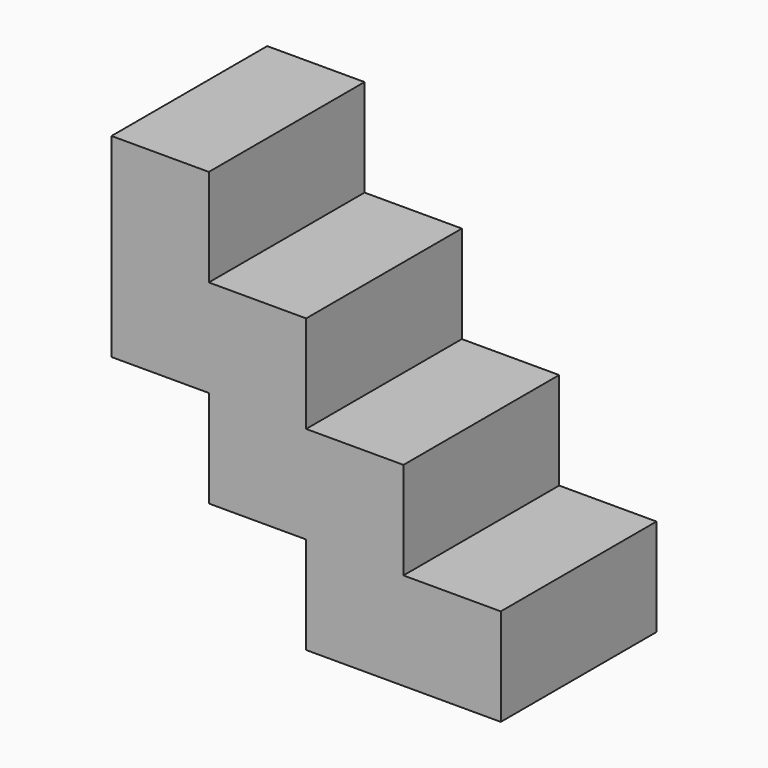
from build123d import *

# Parameters (mm, degrees)
F0_W      = 152.4
F0_H      = 152.4
F1_DEPTH  = 152.4
F2_W      = 76.2
F2_H      = 76.2
F3_DEPTH  = 271.78
F4_W      = 152.4
F4_H      = 76.2
F5_DEPTH  = 76.2
F6_W      = 76.2
F6_H      = 152.4
F7_DEPTH  = 76.2
F8_W      = 76.2
F8_H      = 152.4
F9_DEPTH  = 76.2
F10_W     = 152.4
F10_H     = 76.2
F11_DEPTH = 76.2


with BuildPart() as f1:
    # F0 (on Front) → F1 (new body)
    with BuildSketch(Plane.XZ):
        Rectangle(F0_W, F0_H)
    extrude(amount=F1_DEPTH)

    # F2 (on face) → F3 (cut)
    with BuildSketch(Plane.XZ.offset(152.4)):
        with Locations((38.1, 38.1)):
            Rectangle(F2_W, F2_H)
    extrude(amount=-F3_DEPTH, mode=Mode.SUBTRACT)

    # F4 (on face) → F5 (join, symmetric)
    with BuildSketch(Plane(origin=(-76.2, 0, 0), x_dir=(0, -1, 0), z_dir=(-1, 0, 0))):
        with Locations((76.2, 38.1)):
            Rectangle(F4_W, F4_H)
    extrude(amount=F5_DEPTH, both=True)

    # F6 (on face) → F7 (join)
    with BuildSketch(Plane(origin=(0, 0, -76.2), x_dir=(1, 0, 0), z_dir=(0, 0, -1))):
        with Locations((38.1, 76.2)):
            Rectangle(F6_W, F6_H)
    extrude(amount=F7_DEPTH)

    # F8 (on face) → F9 (join)
    with BuildSketch(Plane.XY.offset(76.2)):
        with Locations((-114.3, -76.2)):
            Rectangle(F8_W, F8_H)
    extrude(amount=F9_DEPTH)

    # F10 (on face) → F11 (join, symmetric)
    with BuildSketch(Plane.YZ.offset(76.2)):
        with Locations((-76.2, -114.3)):
            Rectangle(F10_W, F10_H)
    extrude(amount=F11_DEPTH, both=True)


solid = f1.part
